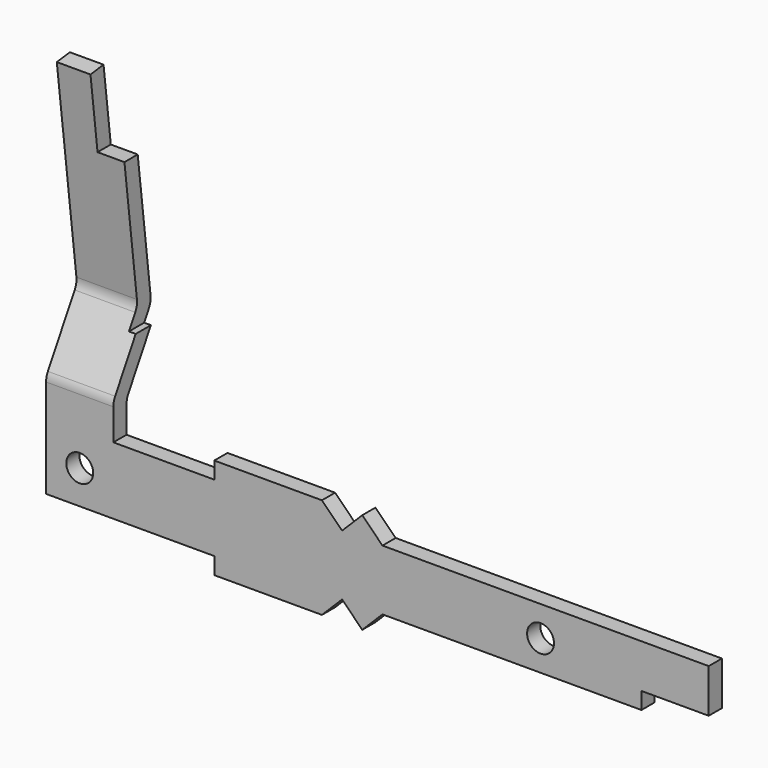
from build123d import *

# Parameters (mm, degrees)
F0_R     = 0.4
F1_DEPTH = 2.5
F3_DEPTH = 35


with BuildPart() as f1:
    # F0 (on Front) → F1 (new body, symmetric)
    with BuildSketch(Plane.XZ):
        Polygon((0, 10.2), (-1, 10.2), (-1, -1), (4, -1), (4, -1.5), (7.2, -1.5), (7.8, -0.9), (8.4, -1.5), (9, -0.9), (16.7, -0.9), (16.7, -0.4), (18.7, -0.4), (18.7, 0.9), (9, 0.9), (8.4, 1.5), (7.8, 0.9), (7.2, 1.5), (4, 1.5), (4, 1), (1, 1), (1, 3.5), (0.8, 3.5), (0.8, 8), (0, 8), align=None)
        Circle(F0_R, mode=Mode.SUBTRACT)
        with Locations((13.7, 0)):
            Circle(F0_R, mode=Mode.SUBTRACT)
    extrude(amount=F1_DEPTH, both=True)

    # F2 (on Right) → F3 (intersect, symmetric)
    with BuildSketch(Plane.YZ):
        with BuildLine():
            ThreePointArc((0.935946, 3.802558), (0.992896, 3.952874), (0.999207, 4.113493))
            Line((0.999207, 4.113493), (0.251877, 10.2))
            Line((0.251877, 10.2), (-0.23447, 10.140284))
            Line((-0.23447, 10.140284), (0.492878, 4.216506))
            ThreePointArc((0.492878, 4.216506), (0.486568, 4.055888), (0.429618, 3.905572))
            Line((0.429618, 3.905572), (-0.566449, 2.180333))
            ThreePointArc((-0.566449, 2.180333), (-0.616399, 2.059743), (-0.633436, 1.930333))
            Line((-0.633436, 1.930333), (-0.633436, -1.5))
            Line((-0.633436, -1.5), (-0.143436, -1.5))
            Line((-0.143436, -1.5), (-0.143436, 1.799038))
            ThreePointArc((-0.143436, 1.799038), (-0.126399, 1.928448), (-0.076449, 2.049038))
            Line((-0.076449, 2.049038), (0.935946, 3.802558))
        make_face()
    extrude(amount=F3_DEPTH, both=True, mode=Mode.INTERSECT)


solid = f1.part
